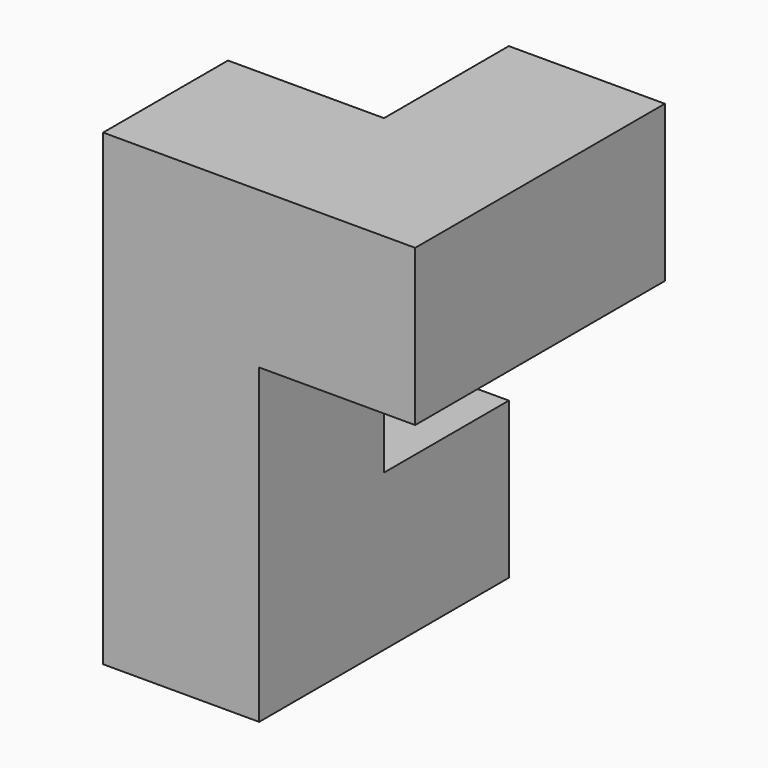
from build123d import *

# Parameters (mm, degrees)
F1_DEPTH = 19.05
F2_W     = 19.05
F2_H     = 19.05
F3_DEPTH = 38.1
F4_W     = 19.05
F4_H     = 19.05
F5_DEPTH = 19.05


with BuildPart() as f1:
    # F0 (on Top) → F1 (new body)
    with BuildSketch(Plane.XY):
        Polygon((14.065591, 38.1), (-4.984409, 38.1), (-4.984409, 19.05), (-24.034409, 19.05), (-24.034409, 0), (14.065591, 0), align=None)
    extrude(amount=F1_DEPTH)

    # F2 (on face) → F3 (join)
    with BuildSketch(Plane(origin=(0, 0, 0), x_dir=(1, 0, 0), z_dir=(0, 0, -1))):
        with Locations((-14.509409, -9.525)):
            Rectangle(F2_W, F2_H)
    extrude(amount=F3_DEPTH)

    # F4 (on face) → F5 (join)
    with BuildSketch(Plane(origin=(0, 19.05, 0), x_dir=(-1, 0, 0), z_dir=(0, 1, 0))):
        with Locations((14.509409, -28.575)):
            Rectangle(F4_W, F4_H)
    extrude(amount=F5_DEPTH)


solid = f1.part
